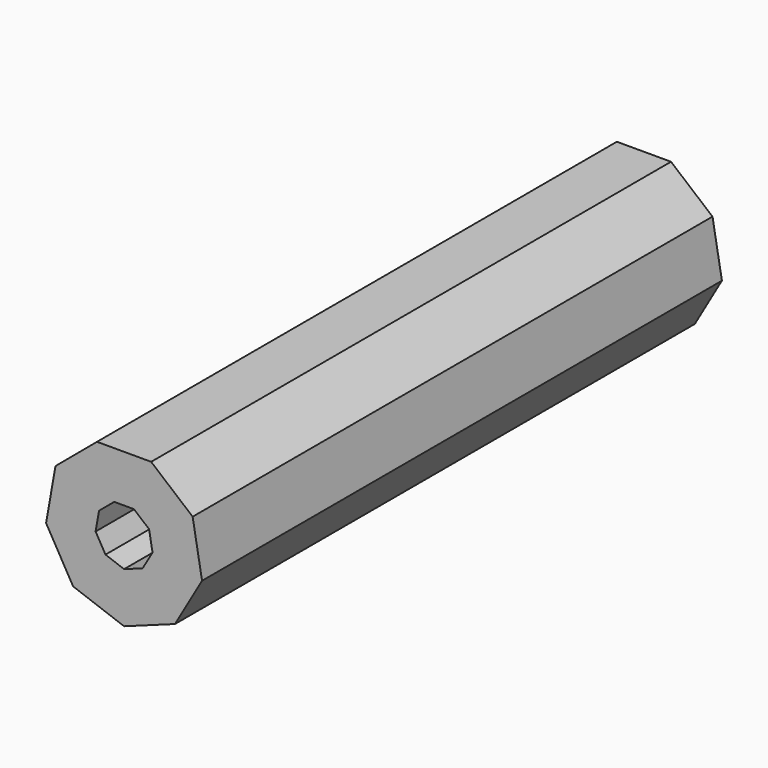
from build123d import *

# Parameters (mm, degrees)
F1_DEPTH = 550
F2_T     = -40


with BuildPart() as f1:
    # F0 (on Front) → F1 (new body)
    with BuildSketch(Plane.XZ):
        Polygon((22.922507, 62.979072), (-22.922507, 62.979072), (-58.041826, 33.510464), (-66.00273, -11.638062), (-43.080222, -51.34101), (0, -67.020928), (43.080222, -51.34101), (66.00273, -11.638062), (58.041826, 33.510464), align=None)
    extrude(amount=F1_DEPTH)

    # F2
    f2_openings = [f1.faces().sort_by_distance(p)[0] for p in [
        (0, -550, 0),
    ]]
    offset(amount=F2_T, openings=f2_openings)


solid = f1.part
